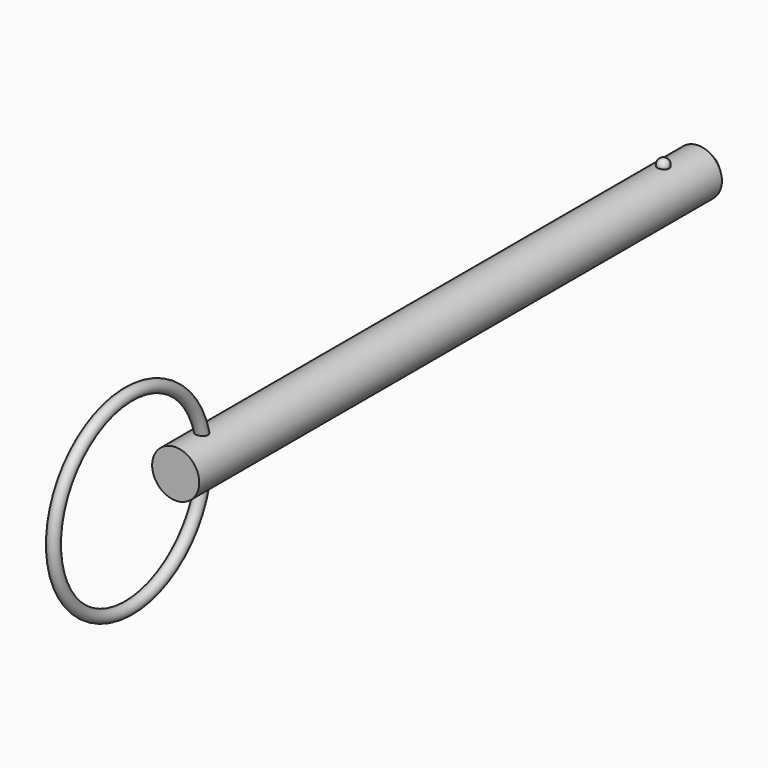
from build123d import *

# Parameters (mm, degrees)
F0_R     = 3.175
F1_DEPTH = 44.8564
F2_SIZE  = 1.5875
F5_R     = 0.79375


with BuildPart() as f1:
    # F0 (on Front) → F1 (new body, symmetric)
    with BuildSketch(Plane.XZ):
        Circle(F0_R)
    extrude(amount=F1_DEPTH, both=True)

    # F2
    f2_edges = [f1.edges().sort_by_distance(p)[0] for p in [
        (-3.175, 44.8564, 0),
    ]]
    chamfer(f2_edges, length=F2_SIZE)


with BuildPart() as f4:
    # F3 (on Right) → F4 (revolve)
    with BuildSketch(Plane.YZ):
        with BuildLine():
            Line((37.345998, 4.0894), (37.345998, 2.5019))
            ThreePointArc((37.345998, 2.5019), (38.139748, 3.29565), (37.345998, 4.0894))
        make_face()
    revolve(axis=Axis((0, 37.345998, 5.348319), (0, 0, 1)))


with BuildPart() as f6:
    # F5 (on Top) → F6 (revolve)
    with BuildSketch(Plane.XY):
        with Locations((0, -40.06215)):
            Circle(F5_R)
    revolve(axis=Axis((5.505938, -52.76215, 0), (1, 0, 0)))


solid = Compound([f1.part, f4.part, f6.part])
